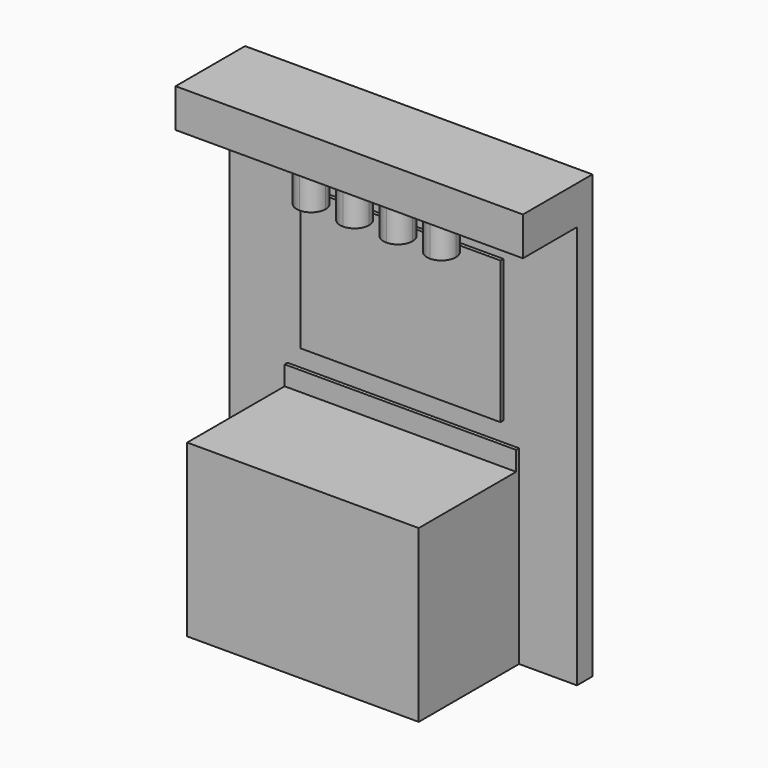
from build123d import *

# Parameters (mm, degrees)
F0_W      = 1828.8
F0_H      = 2133.6
F1_DEPTH  = 101.6
F2_W      = 1219.2
F2_H      = 898.525
F3_DEPTH  = 660.4
F4_W      = 1219.2
F4_H      = 101.6
F5_DEPTH  = 19.05
F6_W      = 1828.8
F6_H      = 9.525
F7_DEPTH  = 101.601
F8_W      = 1054.1
F8_H      = 749.3
F9_DEPTH  = 19.05
F10_W     = 1828.8
F10_H     = 203.2
F11_DEPTH = 457.2
F13_DEPTH = 228.6


with BuildPart() as f1:
    # F0 (on Front) → F1 (new body)
    with BuildSketch(Plane.XZ):
        with Locations((914.4, 1066.8)):
            Rectangle(F0_W, F0_H)
    extrude(amount=F1_DEPTH)

    # F2 (on face) → F3 (join)
    with BuildSketch(Plane.XZ.offset(101.6)):
        with Locations((914.4, 449.2625)):
            Rectangle(F2_W, F2_H)
    extrude(amount=F3_DEPTH)

    # F4 (on face) → F5 (join)
    with BuildSketch(Plane.XZ.offset(101.6)):
        with Locations((914.4, 949.325)):
            Rectangle(F4_W, F4_H)
    extrude(amount=F5_DEPTH)

    # F6 (on face) → F7 (cut, through all)
    with BuildSketch(Plane.XZ.offset(101.6)):
        with Locations((914.4, 2128.8375)):
            Rectangle(F6_W, F6_H)
    extrude(amount=-F7_DEPTH, mode=Mode.SUBTRACT)

    # F10 (on face) → F11 (join)
    with BuildSketch(Plane(origin=(0, 0, 0), x_dir=(-1, 0, 0), z_dir=(0, 1, 0))):
        with Locations((-914.4, 2225.675)):
            Rectangle(F10_W, F10_H)
    extrude(amount=-F11_DEPTH)

    # F12 (on face) → F13 (join)
    with BuildSketch(Plane(origin=(0, 0, 2124.075), x_dir=(1, 0, 0), z_dir=(0, 0, -1))):
        with BuildLine():
            ThreePointArc((571.5, 355.6), (495.3, 279.4), (571.5, 203.2))
            Line((571.5, 203.2), (571.5, 355.6))
        make_face()
        with BuildLine():
            ThreePointArc((800.1, 355.6), (723.9, 279.4), (800.1, 203.2))
            Line((800.1, 203.2), (800.1, 355.6))
        make_face()
        with BuildLine():
            Line((1028.7, 355.6), (1028.7, 203.2))
            ThreePointArc((1028.7, 203.2), (1082.581537, 225.518463), (1104.9, 279.4))
            ThreePointArc((1104.9, 279.4), (1082.581537, 333.281537), (1028.7, 355.6))
        make_face()
        with BuildLine():
            ThreePointArc((1028.7, 355.6), (952.5, 279.4), (1028.7, 203.2))
            Line((1028.7, 203.2), (1028.7, 355.6))
        make_face()
        with BuildLine():
            Line((800.1, 355.6), (800.1, 203.2))
            ThreePointArc((800.1, 203.2), (853.981537, 225.518463), (876.3, 279.4))
            ThreePointArc((876.3, 279.4), (853.981537, 333.281537), (800.1, 355.6))
        make_face()
        with BuildLine():
            Line((571.5, 355.6), (571.5, 203.2))
            ThreePointArc((571.5, 203.2), (625.381537, 225.518463), (647.7, 279.4))
            ThreePointArc((647.7, 279.4), (625.381537, 333.281537), (571.5, 355.6))
        make_face()
        with BuildLine():
            ThreePointArc((1257.3, 355.6), (1181.1, 279.4), (1257.3, 203.2))
            Line((1257.3, 203.2), (1257.3, 355.6))
        make_face()
        with BuildLine():
            Line((1257.3, 355.6), (1257.3, 203.2))
            ThreePointArc((1257.3, 203.2), (1311.181537, 225.518463), (1333.5, 279.4))
            ThreePointArc((1333.5, 279.4), (1311.181537, 333.281537), (1257.3, 355.6))
        make_face()
    extrude(amount=F13_DEPTH)


with BuildPart() as f9:
    # F8 (on face) → F9 (new body)
    with BuildSketch(Plane.XZ.offset(101.6)):
        with Locations((914.4, 1476.375)):
            Rectangle(F8_W, F8_H)
    extrude(amount=F9_DEPTH)


solid = Compound([f1.part, f9.part])
